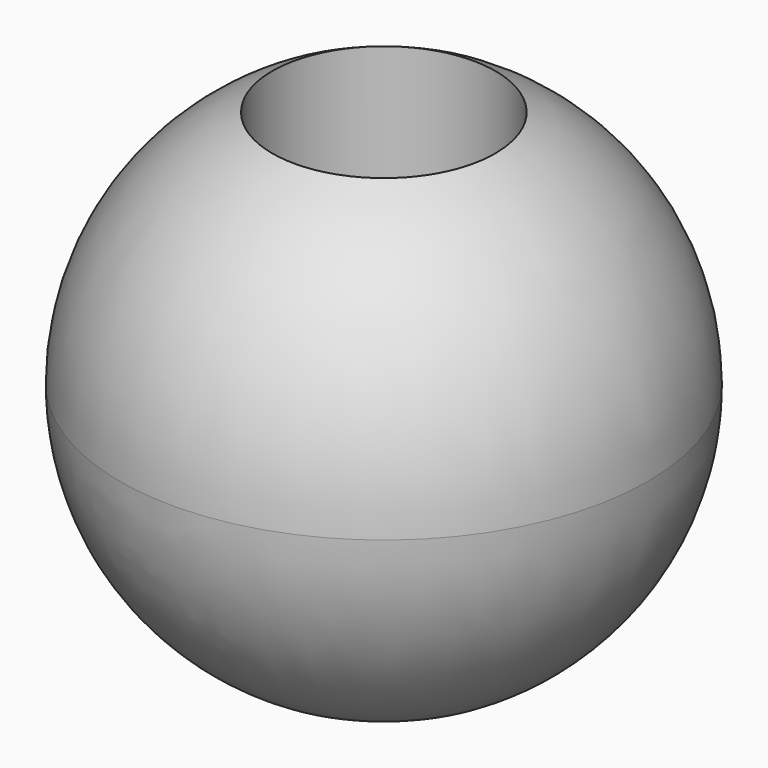
from build123d import *

# Parameters (mm, degrees)
F3_R     = 21.463
F4_DEPTH = 122.555


with BuildPart() as f1:
    # F0 (on Front) → F1 (revolve)
    with BuildSketch(Plane.XZ):
        with BuildLine():
            ThreePointArc((0, -50.8), (35.921024, -35.921024), (50.8, 0))
            ThreePointArc((50.8, 0), (35.921024, 35.921024), (0, 50.8))
            Line((0, 50.8), (0, -50.8))
        make_face()
    revolve(axis=Axis((0, 0, 0), (0, 0, -1)))

    # F3 (on offset) → F4 (cut)
    with BuildSketch(Plane.XY.offset(63.5)):
        Circle(F3_R)
    extrude(amount=-F4_DEPTH, mode=Mode.SUBTRACT)


solid = f1.part
